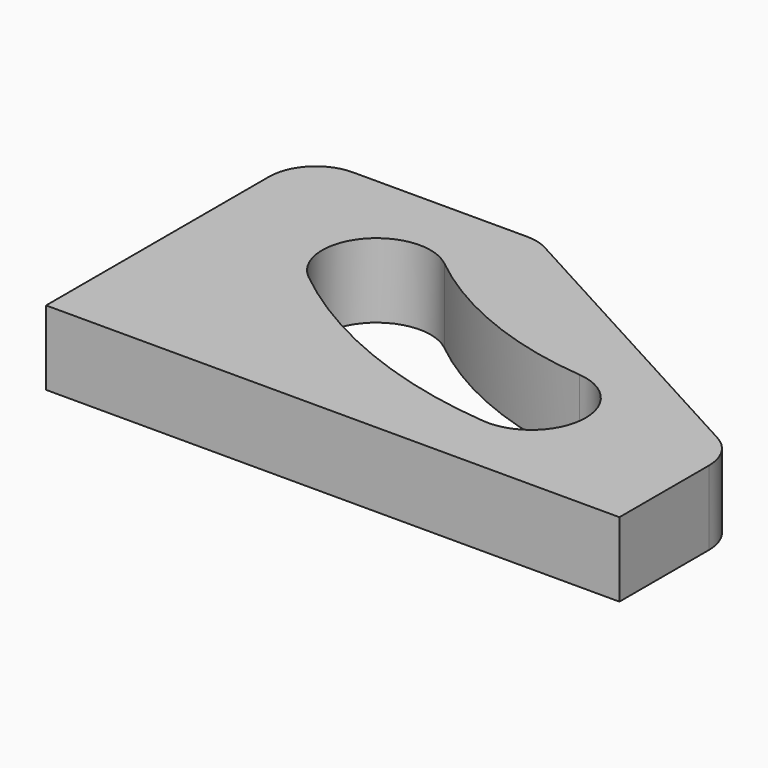
from build123d import *

# Parameters (mm, degrees)
PAD_DEPTH        = 24
PAD001_DEPTH     = 6
HOLE_D           = 4
HOLE_DEPTH       = 25
HOLE_CSINK_D     = 9
HOLE_CSINK_ANGLE = 90


with BuildPart() as handlebody:
    # Sketch → Pad (new body)
    with BuildSketch(Plane.XY):
        with BuildLine():
            Line((0, 0), (0, 90))
            ThreePointArc((15, 105), (4.393398, 100.606602), (0, 90))
            Line((15, 105), (71.17509, 105))
            ThreePointArc((78.357872, 103.168434), (74.881402, 104.534898), (71.17509, 105))
            Line((78.357872, 103.168434), (177.182782, 49.263937))
            ThreePointArc((185, 36.095504), (182.898483, 43.75247), (177.182782, 49.263937))
            Line((185, 36.095504), (185, 0))
            Line((185, 0), (0, 0))
        make_face()
        with BuildLine():
            ThreePointArc((64.000663, 80.610121), (39.389879, 78.000663), (41.999337, 53.389879))
            ThreePointArc((41.999337, 53.389879), (81.199492, 30.292081), (125.417518, 19.571697))
            ThreePointArc((125.417518, 19.571697), (144.428303, 35.417518), (128.582482, 54.428303))
            ThreePointArc((64.000663, 80.610121), (94.349171, 62.727956), (128.582482, 54.428303))
        make_face(mode=Mode.SUBTRACT)
    extrude(amount=PAD_DEPTH)


with BuildPart() as handletemplate:
    # Binder001 → Pad001 (new body)
    with BuildSketch(Plane(origin=(75.99654, 43.948371, 0), x_dir=(0, 1, 0), z_dir=(0, 0, 1))):
        with BuildLine():
            Line((-39.448371, -104.50346), (-7.852867, -104.50346))
            ThreePointArc((-7.852867, -104.50346), (-2.492991, -103.032398), (1.365036, -99.031408))
            Line((1.365036, -99.031408), (55.269533, -0.206497))
            ThreePointArc((55.269533, -0.206497), (56.226058, 2.227032), (56.551629, 4.82145))
            Line((56.551629, 4.82145), (56.551629, 60.99654))
            ThreePointArc((56.551629, 60.99654), (53.476251, 68.421161), (46.051629, 71.49654))
            Line((46.051629, 71.49654), (-39.448371, 71.49654))
            Line((-39.448371, 71.49654), (-39.448371, -104.50346))
        make_face()
        with BuildLine():
            ThreePointArc((40.161496, 9.167134), (22.949912, -20.043304), (14.961496, -52.992866))
            ThreePointArc((14.961496, -52.992866), (-8.937776, -72.913327), (-28.858238, -49.014055))
            ThreePointArc((-28.858238, -49.014055), (-17.826616, -3.51228), (5.941762, 36.825945))
            ThreePointArc((5.941762, 36.825945), (36.881035, 40.106407), (40.161496, 9.167134))
        make_face(mode=Mode.SUBTRACT)
    extrude(amount=PAD001_DEPTH)

    # Hole
    with Locations(Plane(origin=(0, 0, 0), x_dir=(1, 0, 0), z_dir=(0, 0, -1))):
        with Locations((15.457089, -14.384521), (166.741847, -14.384521), (112.412661, -71.215702), (15.457089, -87.643808), (62.244171, -14.384521), (162.304459, -39.401062), (77.57196, -87.515877)):
            CounterSinkHole(HOLE_D / 2, HOLE_CSINK_D / 2, depth=HOLE_DEPTH, counter_sink_angle=HOLE_CSINK_ANGLE)


solid = Compound([handlebody.part, handletemplate.part])
